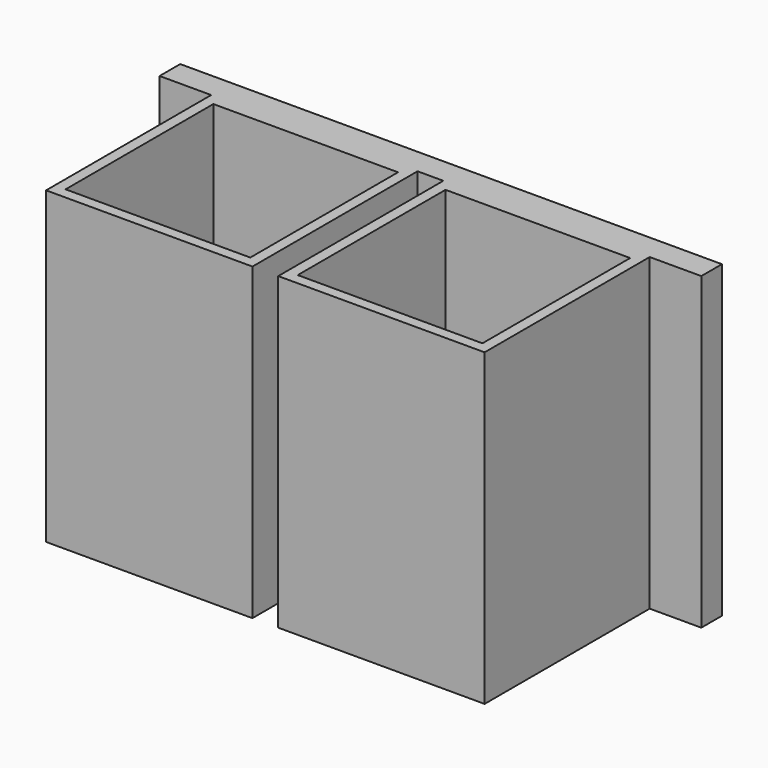
from build123d import *

# Parameters (mm, degrees)
F0_W     = 133.35
F0_H     = 76.2
F2_DEPTH = 6.35
F1_W     = 50.8
F1_H     = 50.8
F1_W_2   = 45.466
F1_H_2   = 45.466
F3_DEPTH = 38.1
F4_START = -33.655
F4_DEPTH = 4.445


with BuildPart() as f2:
    # F0 (on Front) → F2 (new body)
    with BuildSketch(Plane.XZ):
        Rectangle(F0_W, F0_H)
    extrude(amount=-F2_DEPTH)

    # F1 (on Top) → F3 (join, symmetric)
    with BuildSketch(Plane.XY):
        with Locations((-28.575, -25.4)):
            Rectangle(F1_W, F1_H)
        with Locations((-28.575, -25.4)):
            Rectangle(F1_W_2, F1_H_2, mode=Mode.SUBTRACT)
        with Locations((28.575, -25.4)):
            Rectangle(F1_W, F1_H)
        with Locations((28.575, -25.4)):
            Rectangle(F1_W_2, F1_H_2, mode=Mode.SUBTRACT)
    extrude(amount=F3_DEPTH, both=True)

    # F1 (on Top) → F4 (join)
    with BuildSketch(Plane.XY.offset(F4_START)):
        with Locations((-28.575, -25.4)):
            Rectangle(F1_W_2, F1_H_2)
        with Locations((28.575, -25.4)):
            Rectangle(F1_W_2, F1_H_2)
    extrude(amount=-F4_DEPTH)


solid = f2.part
